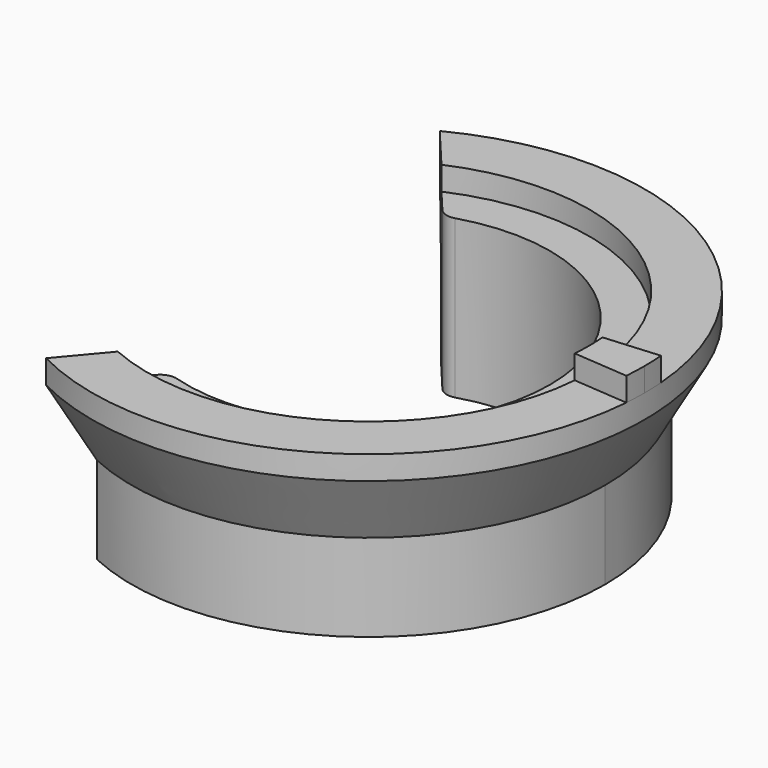
from build123d import *

# Parameters (mm, degrees)
F1_DEPTH  = 20
F3_DEPTH  = 3
F7_DEPTH  = 3
F8_R      = 2
F9_R      = 2
F11_DEPTH = 25


with BuildPart() as f1:
    # F0 (on Top) → F1 (new body)
    with BuildSketch(Plane.XY):
        with BuildLine():
            ThreePointArc((-7.8664632965, 21.6129302781), (13.1922580361, 18.8404970186), (23, 0))
            ThreePointArc((23, 0), (13.1922580361, -18.8404970186), (-7.8664632965, -21.6129302781))
            Line((-7.8664632965, -21.6129302781), (-12.5828212645, -27.2336668304))
            ThreePointArc((-12.5828212645, -27.2336668304), (16.1634674817, -25.2733519535), (30, 0))
            ThreePointArc((30, 0), (16.1634674817, 25.2733519535), (-12.5828212645, 27.2336668304))
            Line((-12.5828212645, 27.2336668304), (-7.8664632965, 21.6129302781))
        make_face()
    extrude(amount=F1_DEPTH)

    # F8
    f8_edges = [f1.edges().sort_by_distance(p)[0] for p in [
        (-7.866463, 21.61293, 10),
    ]]
    fillet(f8_edges, radius=F8_R)

    # F9
    f9_edges = [f1.edges().sort_by_distance(p)[0] for p in [
        (-7.866463, -21.61293, 10),
    ]]
    fillet(f9_edges, radius=F9_R)


with BuildPart() as f3:
    # F2 (on face) → F3 (new body)
    with BuildSketch(Plane.XY.offset(20)):
        with BuildLine():
            Line((-15.8959068315, 31.1820484575), (-11.2471000335, 25.6418162546))
            ThreePointArc((-11.2471000335, 25.6418162546), (28, 0), (-11.2471000335, -25.6418162546))
            Line((-11.2471000335, -25.6418162546), (-15.8959068315, -31.1820484575))
            ThreePointArc((-15.8959068315, -31.1820484575), (35, 0), (-15.8959068315, 31.1820484575))
        make_face()
    extrude(amount=F3_DEPTH)

    # F6 (on face) → F7 (join)
    with BuildSketch(Plane.XY.offset(23)):
        with BuildLine():
            Line((34.8917970302, 2.75), (27.9134376242, 2.2))
            ThreePointArc((27.9134376242, 2.2), (27.9783510368, 1.1008511531), (28, 0))
            ThreePointArc((28, 0), (27.9783510368, -1.1008511531), (27.9134376242, -2.2))
            Line((27.9134376242, -2.2), (34.8917970302, -2.75))
            ThreePointArc((34.8917970302, -2.75), (34.972938796, -1.3760639413), (35, 0))
            ThreePointArc((35, 0), (34.972938796, 1.3760639413), (34.8917970302, 2.75))
        make_face()
    extrude(amount=F7_DEPTH)


with BuildPart() as f5:
    # F5: sweep along a path in F5_path
    with BuildLine(Plane(origin=(-15.8959068315, 31.1820484575, 20), x_dir=(0, -1, 0), z_dir=(0, 0, -1))) as f5_path:
        ThreePointArc((0, 0), (31.1820484575, -50.8959068315), (62.3640969149, 0))
    # F4 (on face) → F5 (sweep)
    with BuildSketch(Plane(origin=(6.0260604953, -5.056465139, 0), x_dir=(-0.6427876097, -0.7660444431, 0), z_dir=(-0.7660444431, 0.6427876097, 0))):
        Polygon((34.1045269019, 20), (28.9502807448, 20), (28.9502807448, 11.0725837812), align=None)
    sweep(path=f5_path.line)

    # F10 (on face) → F11 (cut)
    with BuildSketch(Plane.XY.offset(23)):
        Polygon((-21.7447763936, 19.3639848703), (-11.2471000335, 25.6418162546), (-15.8959068315, 31.1820484575), (-25.9897373727, 26.0364407186), align=None)
    extrude(amount=-F11_DEPTH, mode=Mode.SUBTRACT)


solid = Compound([f1.part, f3.part, f5.part])
